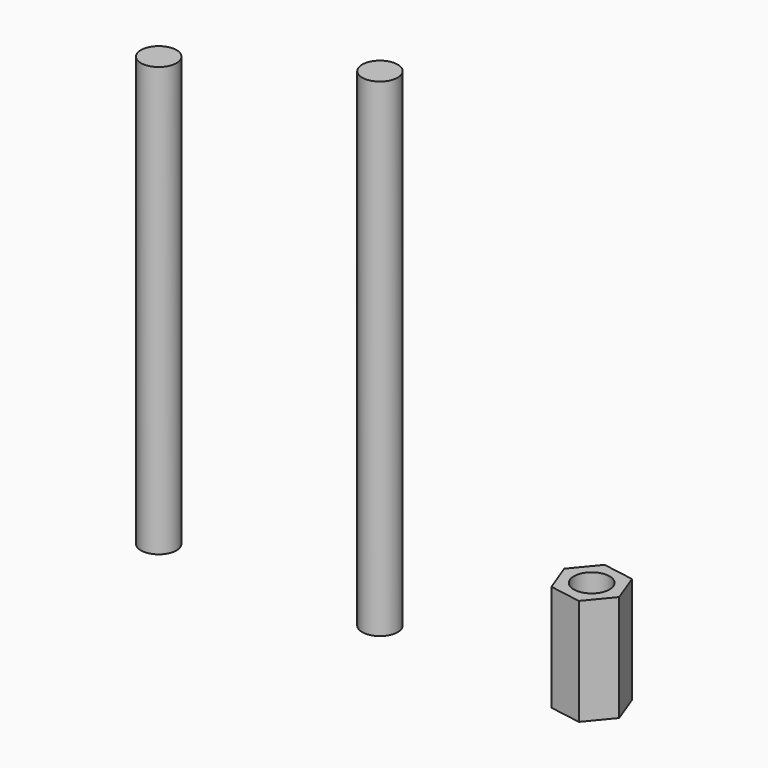
from build123d import *

# Parameters (mm, degrees)
F0_R     = 6
F1_DEPTH = 165
F2_DEPTH = 145
F4_DEPTH = 36
F5_D     = 12.1


with BuildPart() as f1:
    # F0 (on Top) → F1 (new body)
    with BuildSketch(Plane.XY):
        with Locations((74.7751072049, 0)):
            Circle(F0_R)
    extrude(amount=F1_DEPTH)

    # F0 (on Top) → F2, piece 2 (join)
    with BuildSketch(Plane.XY):
        with Locations((74.7751072049, 0)):
            Circle(F0_R)
    extrude(amount=F2_DEPTH)


with BuildPart() as f2:
    # F0 (on Top) → F2 (new body)
    with BuildSketch(Plane.XY):
        Circle(F0_R)
    extrude(amount=F2_DEPTH)


with BuildPart() as f4:
    # F3 (on Top) → F4 (new body)
    with BuildSketch(Plane.XY):
        Polygon((157.0593070035, -1.7977121316), (153.2581781804, 8.3814603792), (142.5421917851, 10.1791725108), (135.6273342128, 1.7977121316), (139.4284630358, -8.3814603792), (150.1444494312, -10.1791725108), align=None)
    extrude(amount=F4_DEPTH)

    # F5 (through all)
    with Locations(Plane(origin=(0, 0, 0), x_dir=(1, 0, 0), z_dir=(0, 0, -1))):
        with Locations((146.3433206081, 0)):
            Hole(F5_D / 2)


solid = Compound([f1.part, f2.part, f4.part])
